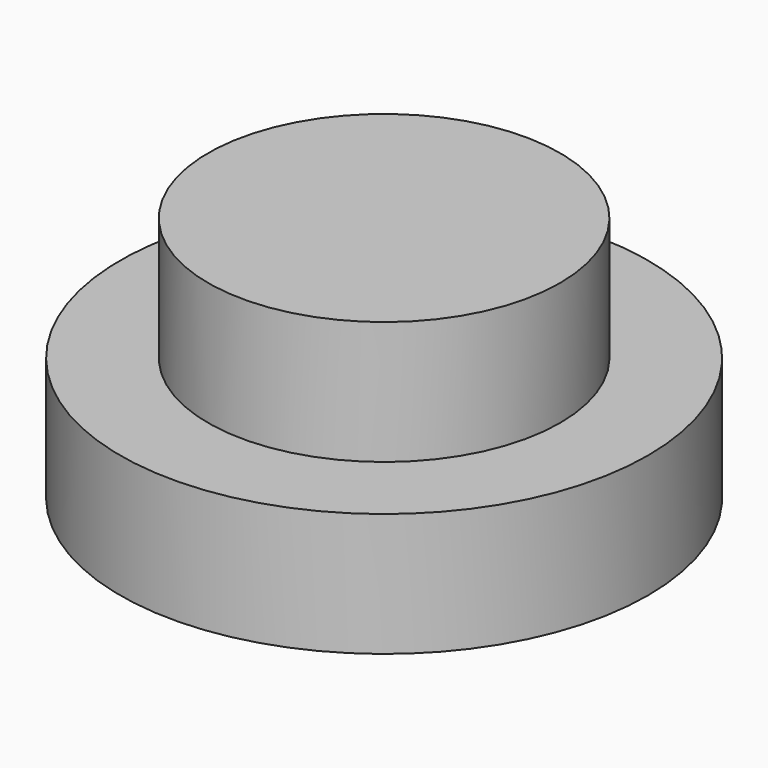
from build123d import *

# Parameters (mm, degrees)
F0_R     = 19.05
F1_DEPTH = 8.89
F2_R     = 12.7
F3_DEPTH = 17.78


with BuildPart() as f1:
    # F0 (on Top) → F1 (new body)
    with BuildSketch(Plane.XY):
        Circle(F0_R)
    extrude(amount=F1_DEPTH)

    # F2 (on face) → F3 (join)
    with BuildSketch(Plane(origin=(0, 0, 0), x_dir=(1, 0, 0), z_dir=(0, 0, -1))):
        Circle(F2_R)
    extrude(amount=-F3_DEPTH)


solid = f1.part
